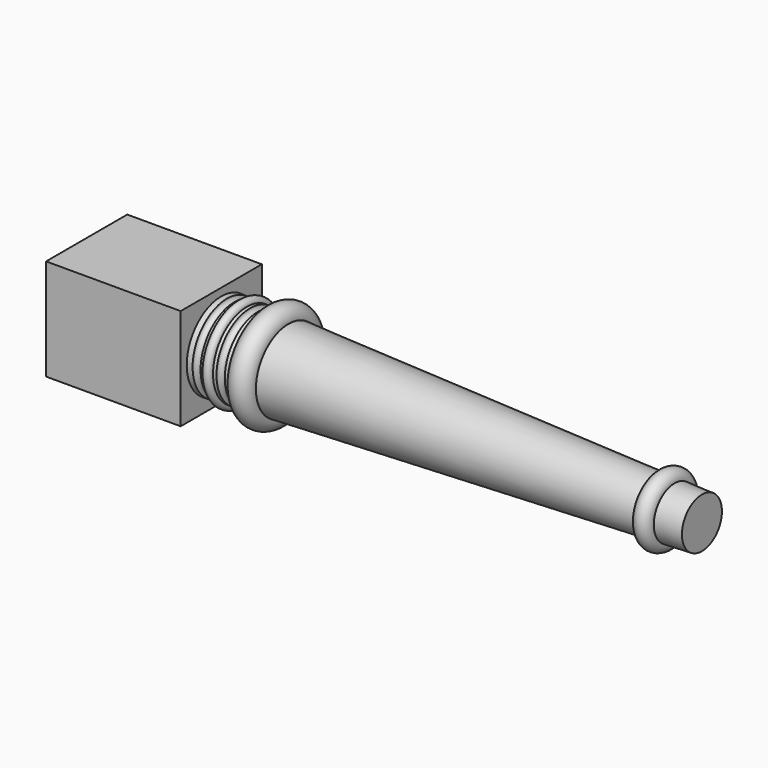
from build123d import *

# Parameters (mm, degrees)
F2_W     = 67
F2_H     = 67
F2_R     = 28.5
F3_DEPTH = 88.9
F4_R     = 5.9822306913
F6_R     = 8.0626271117
F8_R     = 2.983323662
F10_R    = 2.5601115979
F10_R_2  = 2.6665511694


with BuildPart() as f1:
    # F0 (on Front) → F1 (revolve)
    with BuildSketch(Plane.XZ):
        Polygon((-53.742856312, 28.5), (-53.742856312, 0), (263.757143688, 0), (263.757143688, 16.5), align=None)
    revolve(axis=Axis((105.007143688, 0, 0), (-1, 0, 0)))

    # F2 (on face) → F3 (join)
    with BuildSketch(Plane(origin=(-53.742856312, 0, 0), x_dir=(0, -1, 0), z_dir=(-1, 0, 0))):
        Rectangle(F2_W, F2_H)
        Circle(F2_R, mode=Mode.SUBTRACT)
        Circle(F2_R)
    extrude(amount=F3_DEPTH)

    # F4 (on Front) → F5 (revolve)
    with BuildSketch(Plane.XZ):
        with Locations((239.7276759148, 17.418846488)):
            Circle(F4_R)
    revolve(axis=Axis((263.757143688, 0, 0), (-1, 0, 0)))

    # F6 (on Front) → F7 (revolve)
    with BuildSketch(Plane.XZ):
        with Locations((-17.4372307956, 27.3249894381)):
            Circle(F6_R)
    revolve(axis=Axis((105.007143688, 0, 0), (-1, 0, 0)))

    # F8 (on Front) → F9 (revolve)
    with BuildSketch(Plane.XZ):
        with Locations((-39.8596227169, 28.1089879572)):
            Circle(F8_R)
    revolve(axis=Axis((105.007143688, 0, 0), (-1, 0, 0)))

    # F10 (on Front) → F11 (revolve, cut)
    with BuildSketch(Plane.XZ):
        with Locations((-47.4315620959, 28.3217914402)):
            Circle(F10_R)
        with Locations((-32.0048183203, 27.6625286788)):
            Circle(F10_R_2)
    revolve(axis=Axis((263.757143688, 0, 0), (-1, 0, 0)), mode=Mode.SUBTRACT)


solid = f1.part
